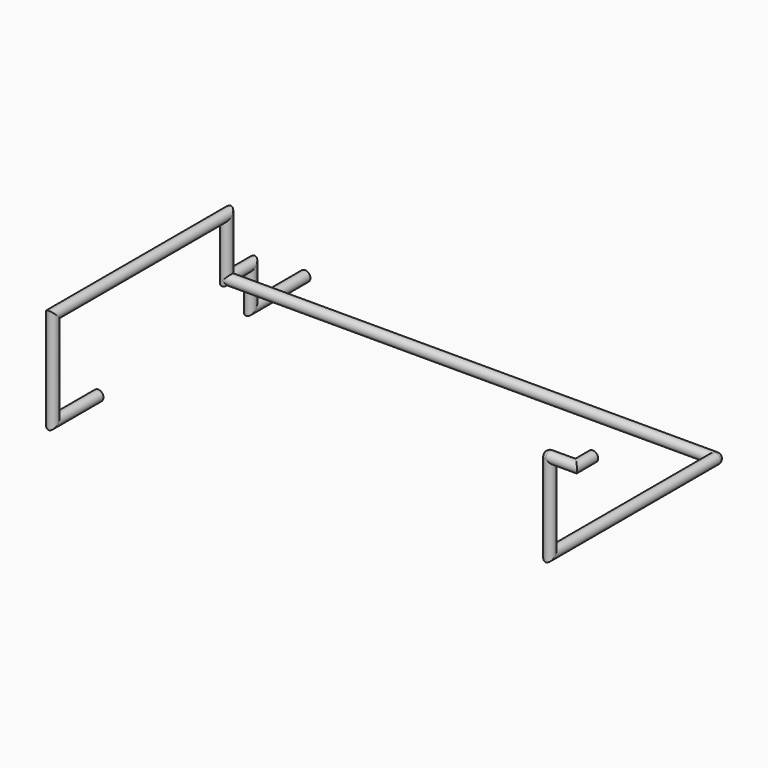
from build123d import *

# Parameters (mm, degrees)
F0_R  = 7.5
F3_R  = 7.5
F7_R  = 7.5
F11_R = 7.5


with BuildPart() as f2:
    # F2: sweep along a path in F1
    with BuildLine(Plane.YZ) as f2_path:
        Line((0, 0), (-80.781, 0))
        Line((-80.781, 0), (-80.781, 134.381))
        Line((-80.781, 134.381), (228, 134.381))
        Line((228, 134.381), (228, 54.381))
        Line((228, 54.381), (270.740032196, 54.381))
        Line((270.740032196, 54.381), (270.740032196, 0))
        Line((270.740032196, 0), (367.740032196, 0))
    # F0 (on Front) → F2 (sweep)
    with BuildSketch(Plane.XZ):
        Circle(F0_R)
    sweep(path=f2_path.line, transition=Transition.RIGHT)

    # F5: sweep along a path in F4
    with BuildLine(Plane.XZ) as f5_path:
        Line((0, 0), (695, 0))
    # F3 (on Right) → F5 (sweep)
    with BuildSketch(Plane.YZ):
        with Locations((228, 54.381)):
            Circle(F3_R)
    sweep(path=f5_path.line)

    # F9: sweep along a path in F8
    with BuildLine(Plane.YZ) as f9_path:
        Line((228, 54.381), (-65.727, 54.381))
        Line((-65.727, 54.381), (-65.727, 176.355))
    # F7 (on offset) → F9 (sweep)
    with BuildSketch(Plane.XZ.offset(-228)):
        with Locations((695, 54.381)):
            Circle(F7_R)
    sweep(path=f9_path.line, transition=Transition.RIGHT)

    # F13: sweep along a path in F12
    with BuildLine(Plane.XY) as f13_path:
        Line((695, -65.727), (732, -65.727))
        Line((732, -65.727), (732, -35.727))
    # F11 (on offset) → F13 (sweep)
    with BuildSketch(Plane.YZ.offset(695)):
        with Locations((-65.727, 176.355)):
            Circle(F11_R)
    sweep(path=f13_path.line, transition=Transition.RIGHT)

    # F9_face (on face) → F14 (revolve)
    with BuildSketch(Plane(origin=(691.8169011382, -65.727, 176.355), x_dir=(1, 0, 0), z_dir=(0, 0, 1))):
        with BuildLine():
            Line((3.1830988618, -7.5), (3.1830988618, 7.5))
            ThreePointArc((3.1830988618, 7.5), (-4.3169011382, 0), (3.1830988618, -7.5))
        make_face()
    revolve(axis=Axis((695, -65.727, 176.355), (0, -1, 0)))

    # F9_face1 (on face) → F15 (revolve)
    with BuildSketch(Plane(origin=(698.1830988618, 228, 54.381), x_dir=(-1, 0, 0), z_dir=(0, 1, 0))):
        with BuildLine():
            ThreePointArc((-4.3169011382, 0), (-2.1202019971, -5.3033008589), (3.1830988618, -7.5))
            Line((3.1830988618, -7.5), (3.1830988618, 7.5))
            ThreePointArc((3.1830988618, 7.5), (-2.1202019971, 5.3033008589), (-4.3169011382, 0))
        make_face()
    revolve(axis=Axis((695, 228, 54.381), (0, 0, 1)))


solid = f2.part
